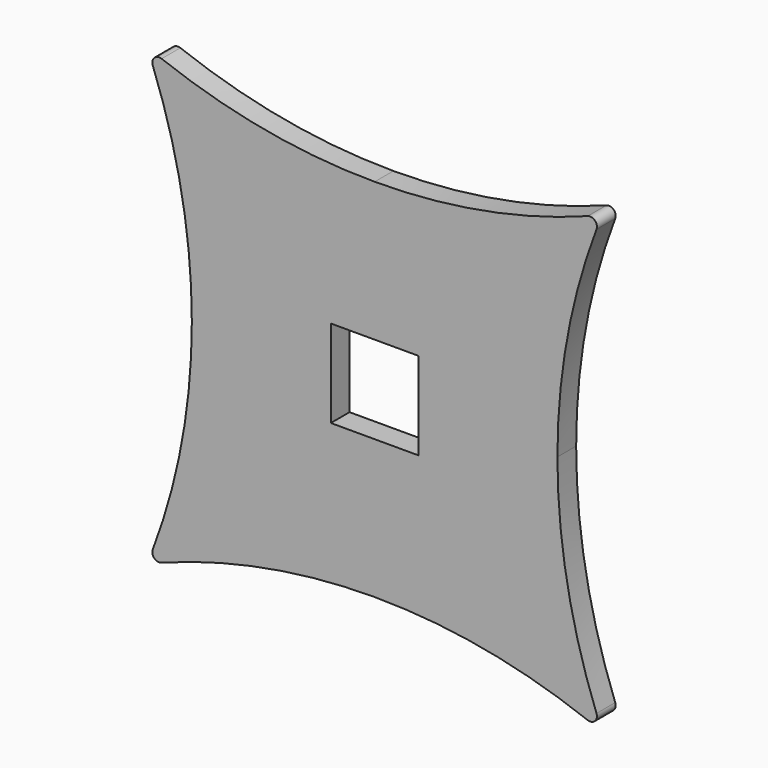
from build123d import *

# Parameters (mm, degrees)
F1_DEPTH = 2.6162
F2_W     = 9.779
F2_H     = 9.779
F3_DEPTH = 25
F4_R     = 0.762


with BuildPart() as f1:
    # F0 (on Front) → F1 (new body)
    with BuildSketch(Plane.XZ):
        with BuildLine():
            ThreePointArc((20.4, 0), (21.66188, 12.943724), (25.4, 25.4))
            ThreePointArc((25.4, 25.4), (12.943724, 21.66188), (0, 20.4))
            ThreePointArc((0, 20.4), (-12.943724, 21.66188), (-25.4, 25.4))
            ThreePointArc((-25.4, 25.4), (-20.4, 0), (-25.4, -25.4))
            ThreePointArc((-25.4, -25.4), (0, -20.4), (25.4, -25.4))
            ThreePointArc((25.4, -25.4), (21.66188, -12.943724), (20.4, 0))
        make_face()
    extrude(amount=F1_DEPTH)

    # F2 (on face) → F3 (cut)
    with BuildSketch(Plane(origin=(0, 0, 0), x_dir=(-1, 0, 0), z_dir=(0, 1, 0))):
        Rectangle(F2_W, F2_H)
    extrude(amount=-F3_DEPTH, mode=Mode.SUBTRACT)

    # F4
    f4_edges = [f1.edges().sort_by_distance(p)[0] for p in [
        (25.4, -1.3081, 25.4),
        (-25.4, -1.3081, 25.4),
        (-25.4, -1.3081, -25.4),
        (25.4, -1.3081, -25.4),
    ]]
    fillet(f4_edges, radius=F4_R)


solid = f1.part
